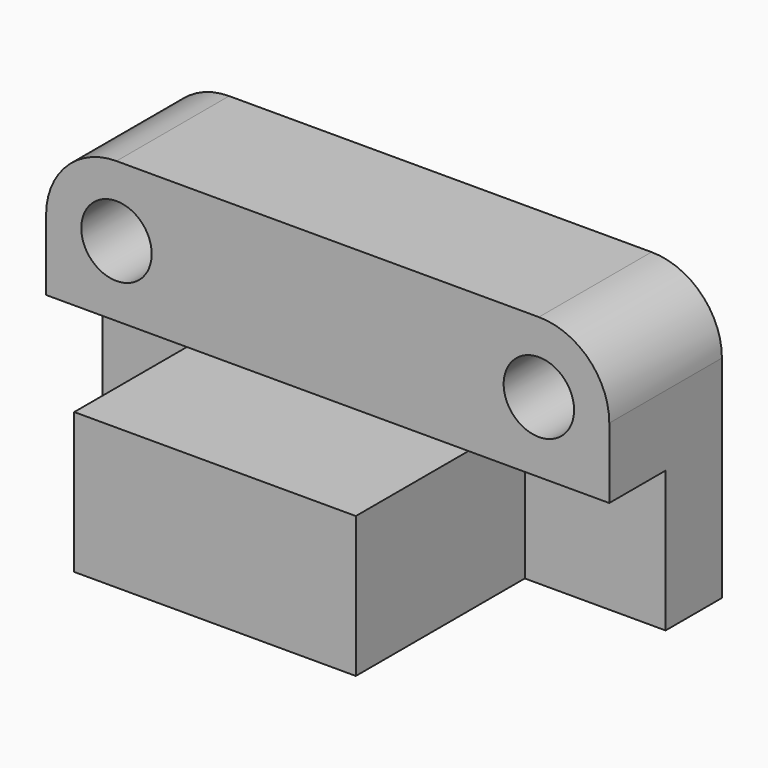
from build123d import *

# Parameters (mm, degrees)
F0_W     = 101.6
F0_H     = 50.8
F1_DEPTH = 76.2
F2_W     = 50.8
F2_H     = 50.8
F2_W_2   = 101.6
F3_DEPTH = 25.4
F4_W     = 50.8
F4_H     = 25.4
F5_DEPTH = 50.8
F6_R     = 25.4
F7_R     = 25.4
F8_R     = 12.7
F9_DEPTH = 50.8


with BuildPart() as f1:
    # F0 (on Front) → F1 (new body)
    with BuildSketch(Plane.XZ):
        with Locations((-50.8, 25.4)):
            Rectangle(F0_W, F0_H)
    extrude(amount=-F1_DEPTH)

    # F2 (on face) → F3 (join)
    with BuildSketch(Plane(origin=(0, 76.2, 0), x_dir=(-1, 0, 0), z_dir=(0, 1, 0))):
        with Locations((-25.4, 25.4)):
            Rectangle(F2_W, F2_H)
        with Locations((50.8, 25.4)):
            Rectangle(F2_W_2, F2_H)
        with Locations((127, 25.4)):
            Rectangle(F2_W, F2_H)
    extrude(amount=F3_DEPTH)

    # F4 (on face) → F5 (join)
    with BuildSketch(Plane.XY.offset(50.8)):
        with Locations((-127, 63.5)):
            Rectangle(F4_W, F4_H)
        Polygon((50.8, 76.2), (50.8, 101.6), (-152.4, 101.6), (-152.4, 76.2), (-101.6, 76.2), (-101.6, 50.8), (0, 50.8), (0, 76.2), align=None)
        with Locations((25.4, 63.5)):
            Rectangle(F4_W, F4_H)
    extrude(amount=F5_DEPTH)

    # F6
    f6_edges = [f1.edges().sort_by_distance(p)[0] for p in [
        (50.8, 76.2, 101.6),
    ]]
    fillet(f6_edges, radius=F6_R)

    # F7
    f7_edges = [f1.edges().sort_by_distance(p)[0] for p in [
        (-152.4, 76.2, 101.6),
    ]]
    fillet(f7_edges, radius=F7_R)

    # F8 (on face) → F9 (cut)
    with BuildSketch(Plane.XZ.offset(-50.8)):
        with Locations((-127, 76.2)):
            Circle(F8_R)
        with Locations((25.4, 76.2)):
            Circle(F8_R)
    extrude(amount=-F9_DEPTH, mode=Mode.SUBTRACT)


solid = f1.part
